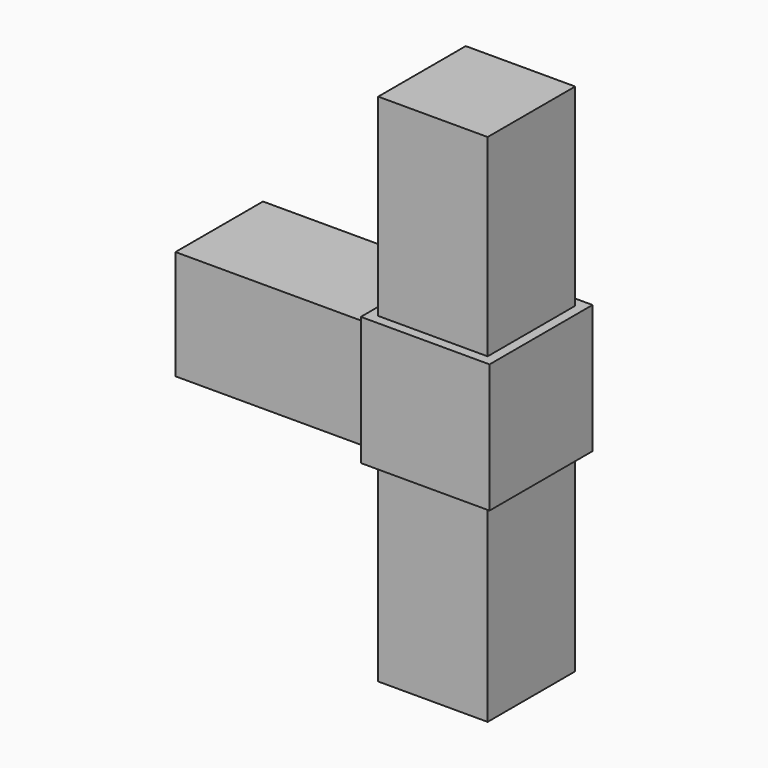
from build123d import *

# Parameters (mm, degrees)
F1_DEPTH = 20
F2_START = 1.5
F2_DEPTH = 17
F3_W     = 17
F3_H     = 17
F4_DEPTH = 30
F5_W     = 17
F5_H     = 17
F6_DEPTH = 30


with BuildPart() as f1:
    # F0 (on Top) → F1 (new body)
    with BuildSketch(Plane.XY):
        Polygon((8.5, -10), (10, -10), (10, 10), (-10, 10), (-10, 8.5), (-10, 0), (-10, -8.5), (-10, -10), (-8.5, -10), (0, -10), align=None)
    extrude(amount=F1_DEPTH)

    # F0 (on Top) → F2 (join)
    with BuildSketch(Plane.XY.offset(F2_START)):
        Polygon((-10, 0), (-10, 8.5), (-40, 8.5), (-40, -8.5), (-10, -8.5), align=None)
    extrude(amount=F2_DEPTH)

    # F3 (on face) → F4 (join)
    with BuildSketch(Plane.XY.offset(20)):
        Rectangle(F3_W, F3_H)
    extrude(amount=F4_DEPTH)

    # F5 (on face) → F6 (join)
    with BuildSketch(Plane(origin=(0, 0, 0), x_dir=(1, 0, 0), z_dir=(0, 0, -1))):
        Rectangle(F5_W, F5_H)
    extrude(amount=F6_DEPTH)


solid = f1.part
